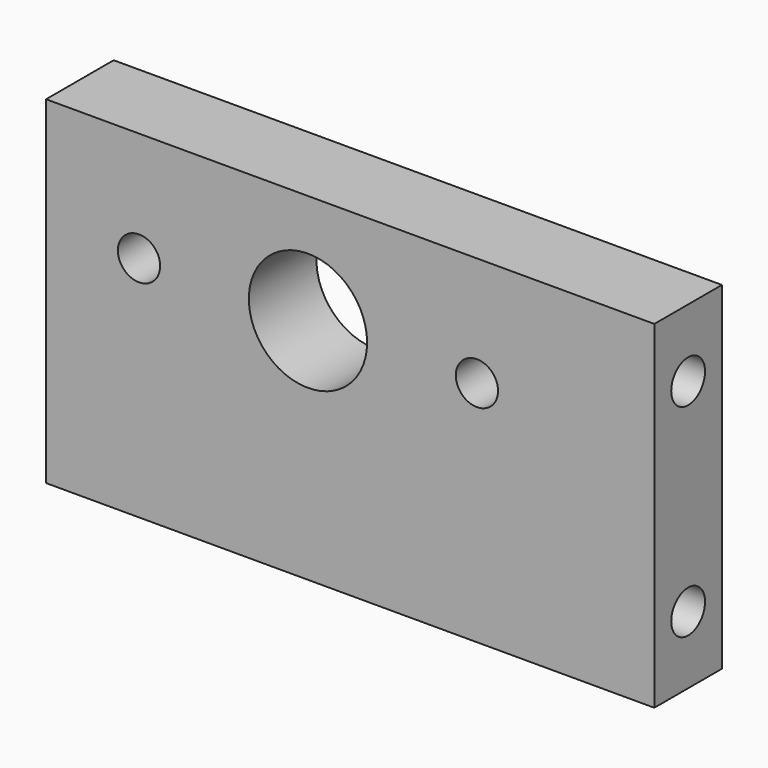
from build123d import *

# Parameters (mm, degrees)
F0_W     = 72
F0_H     = 40
F0_R     = 2.5
F0_R_2   = 7
F1_DEPTH = 10
F3_D     = 5
F3_DEPTH = 20
F3_TIP   = 1.5021515476


with BuildPart() as f1:
    # F0 (on Front) → F1 (new body)
    with BuildSketch(Plane.XZ):
        Rectangle(F0_W, F0_H)
        with Locations((-25, 7)):
            Circle(F0_R, mode=Mode.SUBTRACT)
        with Locations((-5, 7)):
            Circle(F0_R_2, mode=Mode.SUBTRACT)
        with Locations((15, 7)):
            Circle(F0_R, mode=Mode.SUBTRACT)
    extrude(amount=F1_DEPTH)

    # F3
    with Locations(Plane.YZ.offset(36)):
        with Locations((-5, 12), (-5, -12)):
            Hole(F3_D / 2, depth=F3_DEPTH)
            with Locations((0, 0, -(F3_DEPTH + F3_TIP / 2))):  # 118° drill point
                Cone(0, F3_D / 2, F3_TIP, mode=Mode.SUBTRACT)


solid = f1.part
